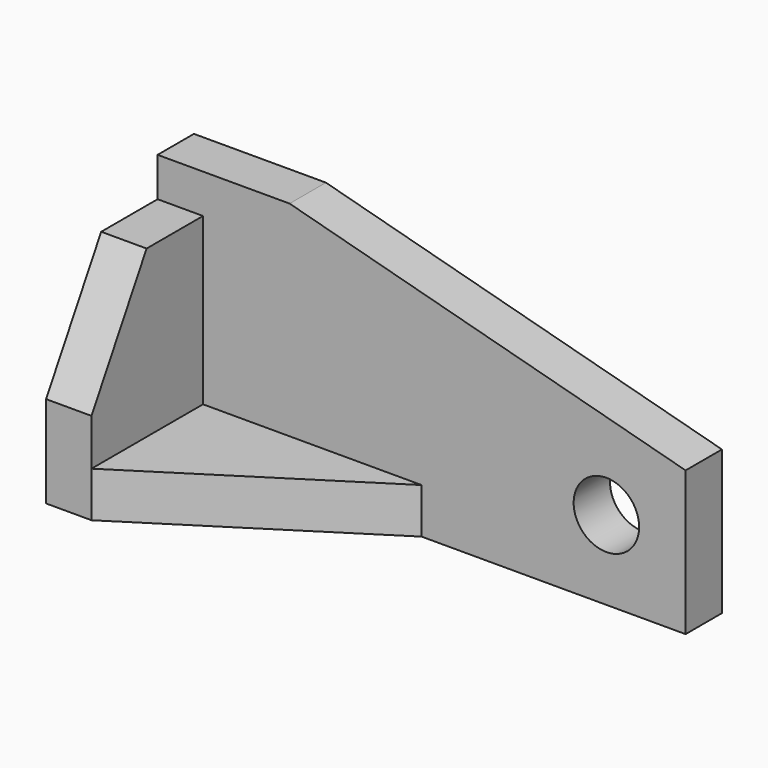
from build123d import *

# Parameters (mm, degrees)
F0_W     = 31.75
F0_H     = 60.198
F0_R     = 7.874
F1_DEPTH = 10.922
F3_DEPTH = 10.922
F2_W     = 10.922
F2_H     = 33.528
F4_DEPTH = 22.098
F6_DEPTH = 10.922


with BuildPart() as f1:
    # F0 (on Front) → F1 (new body)
    with BuildSketch(Plane.XZ):
        Rectangle(F0_W, F0_H)
        Polygon((111.125, 4.576839), (15.875, 30.099), (15.875, -30.099), (111.125, -30.099), align=None)
        with Locations((92.075, -11.049)):
            Circle(F0_R, mode=Mode.SUBTRACT)
    extrude(amount=F1_DEPTH)

    # F2 (on face) → F3 (join)
    with BuildSketch(Plane(origin=(0, 0, -30.099), x_dir=(1, 0, 0), z_dir=(0, 0, -1))):
        Polygon((-4.953, 44.45), (-4.953, 10.922), (47.625, 10.922), align=None)
    extrude(amount=-F3_DEPTH)

    # F2 (on face) → F4 (join)
    with BuildSketch(Plane(origin=(0, 0, -30.099), x_dir=(1, 0, 0), z_dir=(0, 0, -1))):
        with Locations((-10.414, 27.686)):
            Rectangle(F2_W, F2_H)
    extrude(amount=-F4_DEPTH)

    # F5 (on face) → F6 (join)
    with BuildSketch(Plane(origin=(-15.875, 0, 0), x_dir=(0, -1, 0), z_dir=(-1, 0, 0))):
        Polygon((10.922, -8.001), (44.45, -8.001), (27.878893, 20.701), (10.922, 20.701), align=None)
    extrude(amount=-F6_DEPTH)


solid = f1.part
